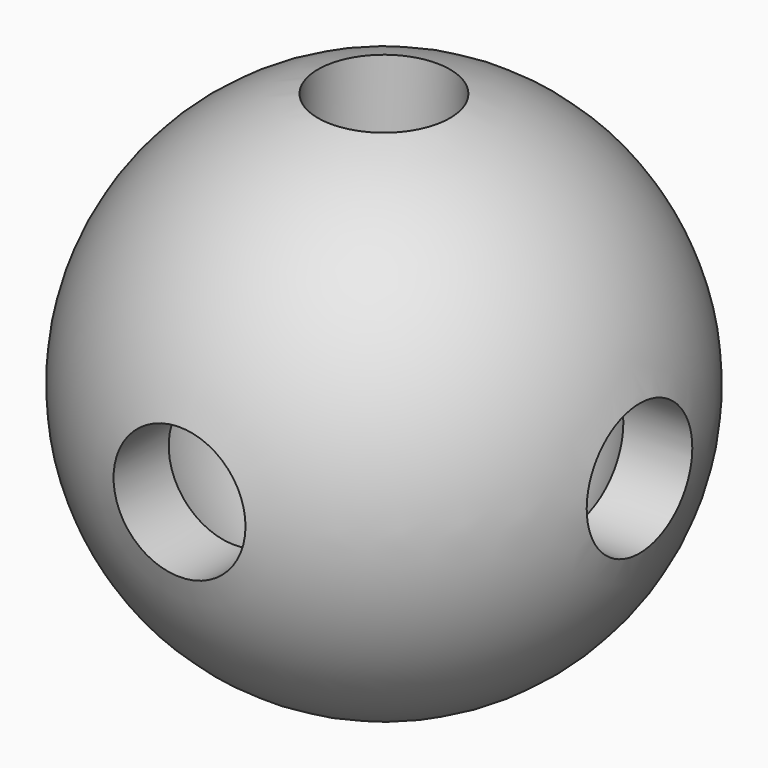
from build123d import *

# Parameters (mm, degrees)
F2_R      = 6.35
F3_DEPTH  = 59.182
F4_R      = 6.35
F5_DEPTH  = 25.4
F6_R      = 6.35
F7_DEPTH  = 25.4
F8_R      = 6.35
F9_DEPTH  = 39.116
F10_R     = 6.35
F11_DEPTH = 44.45
F12_R     = 6.35
F13_DEPTH = 41.148


with BuildPart() as f1:
    # F0 (on Top) → F1 (revolve)
    with BuildSketch(Plane.XY):
        with BuildLine():
            Line((0, -19.05), (0, -25.4))
            ThreePointArc((0, -25.4), (25.4, 0), (0, 25.4))
            Line((0, 25.4), (0, 19.05))
            ThreePointArc((0, 19.05), (19.05, 0), (0, -19.05))
        make_face()
    revolve(axis=Axis((0, 22.225, 0), (0, -1, 0)))

    # F2 (on Top) → F3 (cut)
    with BuildSketch(Plane.XY):
        Circle(F2_R)
    extrude(amount=-F3_DEPTH, mode=Mode.SUBTRACT)

    # F4 (on Right) → F5 (cut)
    with BuildSketch(Plane.YZ):
        Circle(F4_R)
    extrude(amount=-F5_DEPTH, mode=Mode.SUBTRACT)

    # F6 (on Front) → F7 (cut)
    with BuildSketch(Plane.XZ):
        Circle(F6_R)
    extrude(amount=-F7_DEPTH, mode=Mode.SUBTRACT)

    # F8 (on Right) → F9 (cut)
    with BuildSketch(Plane.YZ):
        Circle(F8_R)
    extrude(amount=F9_DEPTH, mode=Mode.SUBTRACT)

    # F10 (on Front) → F11 (cut)
    with BuildSketch(Plane.XZ):
        Circle(F10_R)
    extrude(amount=F11_DEPTH, mode=Mode.SUBTRACT)

    # F12 (on Top) → F13 (cut)
    with BuildSketch(Plane.XY):
        Circle(F12_R)
    extrude(amount=F13_DEPTH, mode=Mode.SUBTRACT)


solid = f1.part
